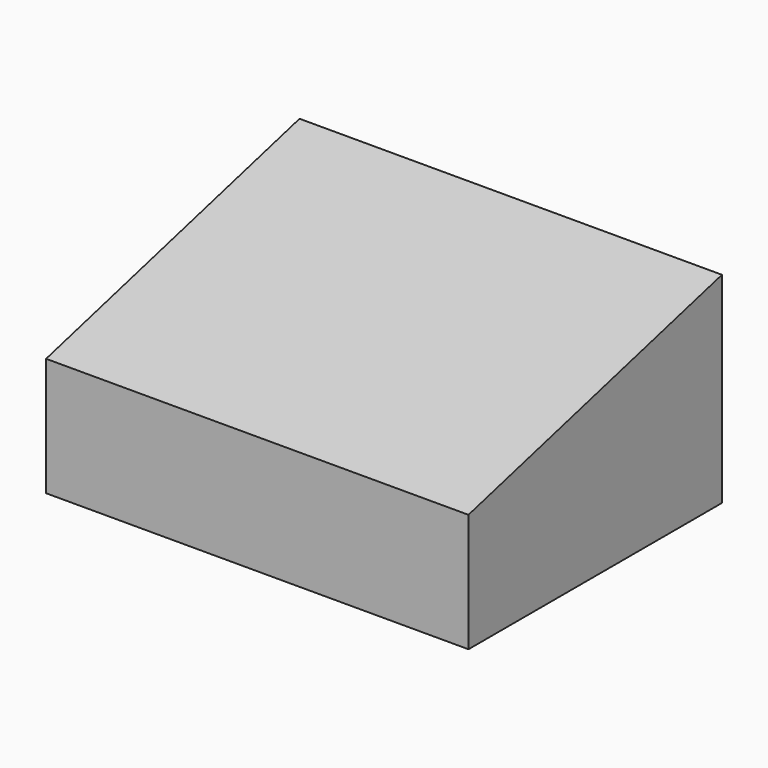
from build123d import *

# Parameters (mm, degrees)
F0_W     = 101.6
F0_H     = 76.2
F1_DEPTH = 76.2
F3_DEPTH = 127


with BuildPart() as f1:
    # F0 (on Top) → F1 (new body)
    with BuildSketch(Plane.XY):
        with Locations((50.8, 38.1)):
            Rectangle(F0_W, F0_H)
    extrude(amount=F1_DEPTH)

    # F2 (on face) → F3 (cut)
    with BuildSketch(Plane(origin=(0, 0, 0), x_dir=(0, -1, 0), z_dir=(-1, 0, 0))):
        Polygon((0, 76.2), (-76.2, 76.2), (0, 28.470712), align=None)
        Polygon((0, 28.470712), (-76.2, 76.2), (-76.2, 48.327208), align=None)
    extrude(amount=-F3_DEPTH, mode=Mode.SUBTRACT)


solid = f1.part
